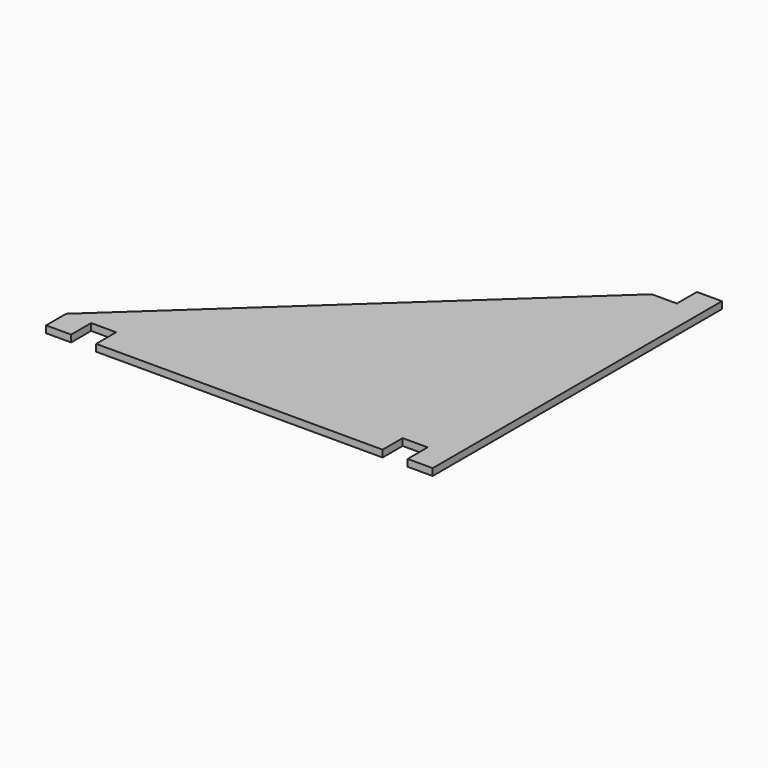
from build123d import *

# Parameters (mm, degrees)
F0_W     = 9
F0_H     = 9
F0_W_2   = 103
F1_DEPTH = 2.5


with BuildPart() as f1:
    # F0 (on Top) → F1 (new body)
    with BuildSketch(Plane.XY):
        Polygon((61.726354, -20.442188), (70.726354, -20.442188), (70.726354, 91.557812), (61.726354, 91.557812), (52.726354, 91.557812), (-68.273646, -20.442188), (-59.273646, -20.442188), (-50.273646, -20.442188), (52.726354, -20.442188), align=None)
        with Locations((66.226354, 96.057812)):
            Rectangle(F0_W, F0_H)
        with Locations((-63.773646, -24.942188)):
            Rectangle(F0_W, F0_H)
        with Locations((1.226354, -24.942188)):
            Rectangle(F0_W_2, F0_H)
        with Locations((66.226354, -24.942188)):
            Rectangle(F0_W, F0_H)
    extrude(amount=F1_DEPTH)


solid = f1.part
